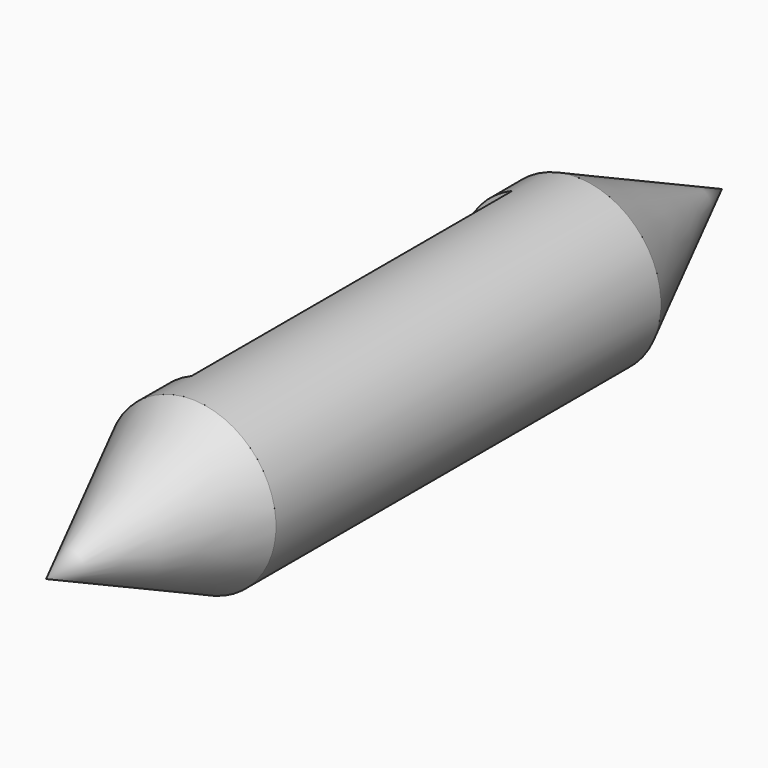
from build123d import *

# Parameters (mm, degrees)
F2_W     = 42.8744
F2_H     = 63.5
F3_DEPTH = 12.7


with BuildPart() as f1:
    # F0 (on Top) → F1 (revolve)
    with BuildSketch(Plane.XY):
        Polygon((-13.3756, -104.995066), (0, -133.790132), (0, 0), (-13.3756, -28.795066), align=None)
    revolve(axis=Axis((0, -66.895066, 0), (0, 1, 0)))

    # F2 (on Top) → F3 (cut, symmetric)
    with BuildSketch(Plane.XY):
        with Locations((-26.5172, -66.895066)):
            Rectangle(F2_W, F2_H)
    extrude(amount=F3_DEPTH, both=True, mode=Mode.SUBTRACT)


solid = f1.part
